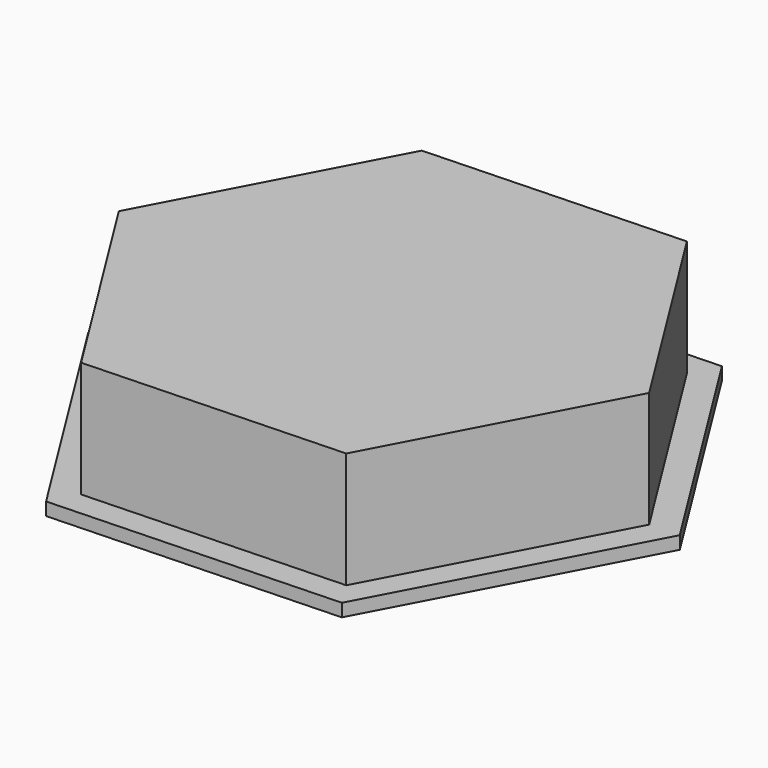
from build123d import *

# Parameters (mm, degrees)
F1_DEPTH = 50
F3_DEPTH = 5


with BuildPart() as f1:
    # F0 (on Top) → F1 (new body)
    with BuildSketch(Plane.XY):
        Polygon((53.122164, -84.723289), (99.933603, 3.643499), (46.811438, 88.366788), (-53.122164, 84.723289), (-99.933603, -3.643499), (-46.811438, -88.366788), align=None)
    extrude(amount=F1_DEPTH)

    # F2 (on face) → F3 (join)
    with BuildSketch(Plane.XY):
        Polygon((-52.216758, -98.570506), (59.256183, -94.506292), (111.472941, 4.064214), (52.216758, 98.570506), (-59.256183, 94.506292), (-111.472941, -4.064214), align=None)
        Polygon((99.933603, 3.643499), (53.122164, -84.723289), (-46.811438, -88.366788), (-99.933603, -3.643499), (-53.122164, 84.723289), (46.811438, 88.366788), align=None, mode=Mode.SUBTRACT)
    extrude(amount=F3_DEPTH)


solid = f1.part
